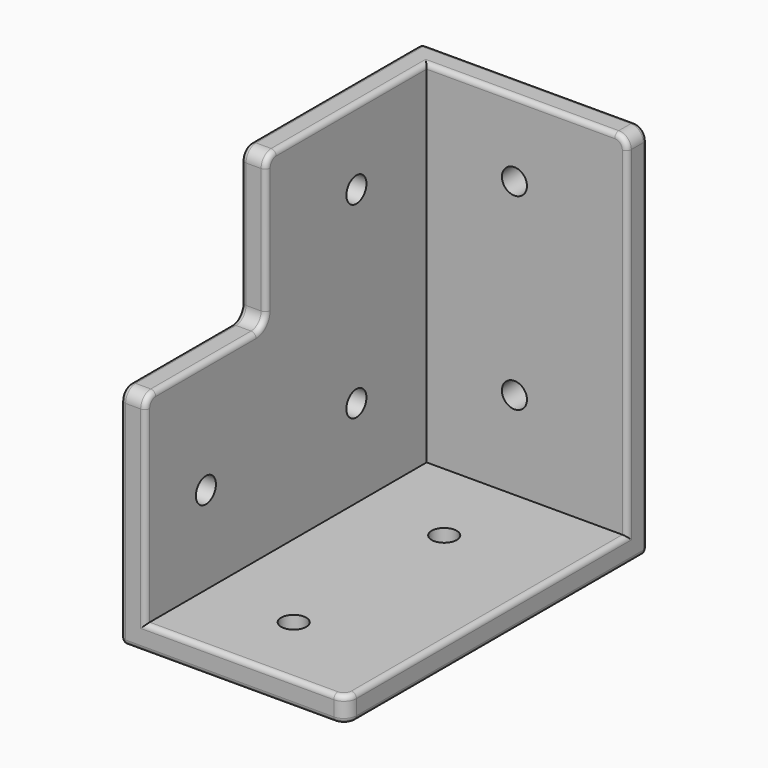
from build123d import *

# Parameters (mm, degrees)
F0_W          = 45
F0_H          = 45
F1_DEPTH      = 45
F2_T          = -5
F3_DEPTH      = 30
F4_DEPTH      = 30
F10_D         = 5
F10_2_D       = 5
F10_ON_F6_D   = 5
F10_ON_F7_D   = 5
F10_ON_F9_D   = 5
F10_ON_F9_2_D = 5
F10_ON_F5_D   = 5
F12_R         = 2.5
F13_R         = 1


with BuildPart() as f1:
    # F0 (on Top) → F1 (new body)
    with BuildSketch(Plane.XY):
        Rectangle(F0_W, F0_H)
    extrude(amount=F1_DEPTH)

    # F2
    f2_openings = [f1.faces().sort_by_distance(p)[0] for p in [
        (0, 0, 45),
        (22.5, 0, 22.5),
        (0, -22.5, 22.5),
    ]]
    offset(amount=F2_T, openings=f2_openings)


with BuildPart() as f3:
    # F3 (new): a face of the model
    f3_faces = [f1.part.faces().sort_by_distance(p)[0] for p in [
        (21.8636038969, -22.5, 2.5),
    ]]
    extrude(f3_faces, amount=F3_DEPTH)

    # F10 on F9#2 (through all)
    with Locations(Plane(origin=(0, 0, 0), x_dir=(1, 0, 0), z_dir=(0, 0, -1))):
        with Locations((0, 0), (0, 37.5)):
            Hole(F10_ON_F9_2_D / 2)

    # F10 on F5 (through all)
    with Locations(Plane(origin=(-22.5, 0, 0), x_dir=(0, -1, 0), z_dir=(-1, 0, 0))):
        with Locations((37.5, 22.5)):
            Hole(F10_ON_F5_D / 2)


with BuildPart() as f4:
    # F4 (new): a face of the model
    f4_faces = [f1.part.faces().sort_by_distance(p)[0] for p in [
        (0, 21.8636038969, 45),
    ]]
    extrude(f4_faces, amount=F4_DEPTH)

    # F10#2 (through all)
    with Locations(Plane(origin=(0, 22.5, 0), x_dir=(-1, 0, 0), z_dir=(0, 1, 0))):
        with Locations((0, 60), (0, 22.5)):
            Hole(F10_2_D / 2)

    # F10 on F6 (through all)
    with Locations(Plane(origin=(-22.5, 0, 0), x_dir=(0, -1, 0), z_dir=(-1, 0, 0))):
        with Locations((0, 60)):
            Hole(F10_ON_F6_D / 2)


with BuildPart() as f1_1:
    add(f1.part)

    # F10 (through all)
    with Locations(Plane(origin=(0, 22.5, 0), x_dir=(-1, 0, 0), z_dir=(0, 1, 0))):
        with Locations((0, 60), (0, 22.5)):
            Hole(F10_D / 2)

    # F10 on F7 (through all)
    with Locations(Plane(origin=(-22.5, 0, 0), x_dir=(0, -1, 0), z_dir=(-1, 0, 0))):
        with Locations((0, 22.5)):
            Hole(F10_ON_F7_D / 2)

    # F10 on F9 (through all)
    with Locations(Plane(origin=(0, 0, 0), x_dir=(1, 0, 0), z_dir=(0, 0, -1))):
        with Locations((0, 0), (0, 37.5)):
            Hole(F10_ON_F9_D / 2)

    # F11: union F3, F4
    add(f3.part)
    add(f4.part)

    # F12
    f12_edges = [f1_1.edges().sort_by_distance(p)[0] for p in [
        (-20, -22.5, 45),
        (-20, -22.5, 75),
        (-20, -52.5, 45),
        (22.5, 20, 75),
        (22.5, -52.5, 2.5),
    ]]
    fillet(f12_edges, radius=F12_R)

    # F13
    f13_edges = [f1_1.edges().sort_by_distance(p)[0] for p in [
        (1.25, 17.5, 75),
        (-17.5, -1.25, 75),
        (1.25, -52.5, 5),
        (-1.25, 22.5, 75),
        (22.5, -13.75, 0),
        (0, 22.5, 0),
        (-22.5, 1.25, 75),
        (-22.5, 22.5, 37.5),
        (-22.5, -15, 0),
    ]]
    fillet(f13_edges, radius=F13_R)


solid = f1_1.part
